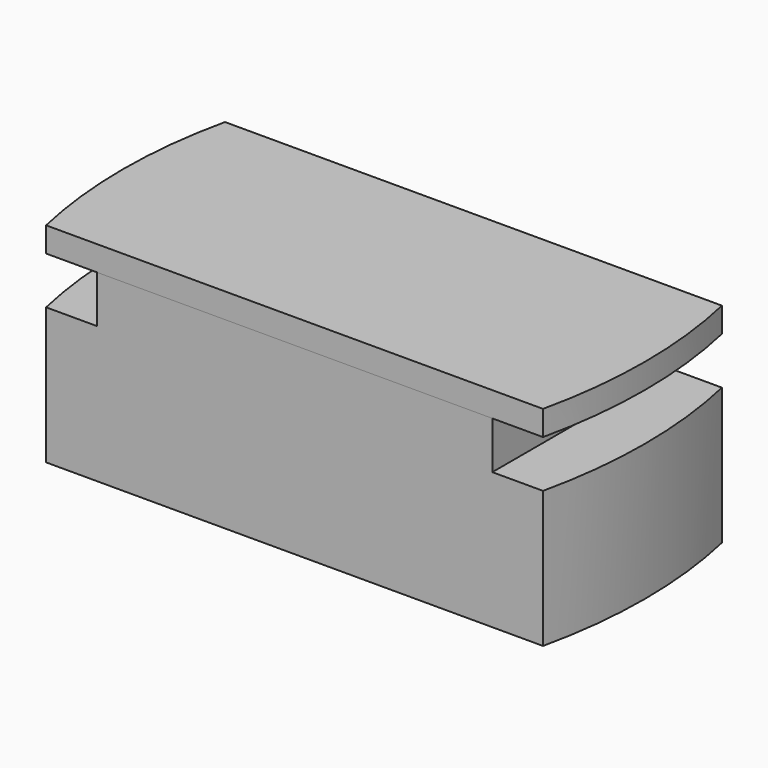
from build123d import *

# Parameters (mm, degrees)
F1_DEPTH  = 37
F2_W      = 64
F2_H      = 38
F3_DEPTH  = 10
F5_DEPTH  = 9.525
F6_W      = 47.05
F6_H      = 21.65
F7_DEPTH  = 10
F9_DEPTH  = 5
F10_R     = 9.525
F11_DEPTH = 26


with BuildPart() as f1:
    # F0 (on Top) → F1 (new body)
    with BuildSketch(Plane.XY):
        with BuildLine():
            Line((50, 22.5), (-50, 22.5))
            ThreePointArc((-50, 22.5), (-52.5, 0), (-50, -22.5))
            Line((-50, -22.5), (50, -22.5))
            ThreePointArc((50, -22.5), (52.5, 0), (50, 22.5))
        make_face()
    extrude(amount=-F1_DEPTH)

    # F2 (on face) → F3 (cut)
    with BuildSketch(Plane.XY):
        Rectangle(F2_W, F2_H)
    extrude(amount=-F3_DEPTH, mode=Mode.SUBTRACT)

    # F4 (on face) → F5 (cut)
    with BuildSketch(Plane.XY):
        with BuildLine():
            Line((-39.8, -22.5), (-39.8, 22.5))
            Line((-39.8, 22.5), (-50, 22.5))
            ThreePointArc((-50, 22.5), (-52.5, 0), (-50, -22.5))
            Line((-50, -22.5), (-39.8, -22.5))
        make_face()
        with BuildLine():
            Line((50, 22.5), (39.8, 22.5))
            Line((39.8, 22.5), (39.8, -22.5))
            Line((39.8, -22.5), (50, -22.5))
            ThreePointArc((50, -22.5), (52.5, 0), (50, 22.5))
        make_face()
    extrude(amount=-F5_DEPTH, mode=Mode.SUBTRACT)

    # F10 (on face) → F11 (cut)
    with BuildSketch(Plane(origin=(0, 0, -37), x_dir=(1, 0, 0), z_dir=(0, 0, -1))):
        Circle(F10_R)
    extrude(amount=-F11_DEPTH, mode=Mode.SUBTRACT)


with BuildPart() as f7:
    # F6 (on face) → F7 (new body)
    with BuildSketch(Plane.XY.offset(-10)):
        Rectangle(F6_W, F6_H)
    extrude(amount=F7_DEPTH)


with BuildPart() as f9:
    # F8 (on face) → F9 (new body)
    with BuildSketch(Plane.XY):
        with BuildLine():
            Line((50, 22.5), (-50, 22.5))
            ThreePointArc((-50, 22.5), (-52.5, 0), (-50, -22.5))
            Line((-50, -22.5), (50, -22.5))
            ThreePointArc((50, -22.5), (52.5, 0), (50, 22.5))
        make_face()
    extrude(amount=F9_DEPTH)


solid = Compound([f1.part, f7.part, f9.part])
